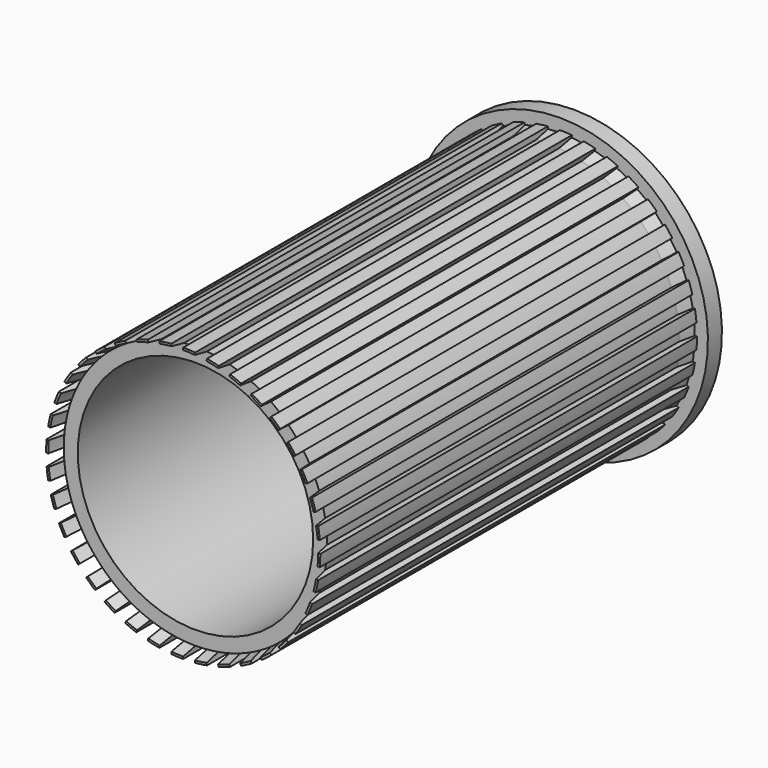
from build123d import *

# Parameters (mm, degrees)
F0_R     = 215
F1_DEPTH = 860


with BuildPart() as f1:
    # F0 (on Front) → F1 (new body)
    with BuildSketch(Plane.XZ):
        with BuildLine():
            Line((-239.4852054213, 20.9522405565), (-249.4471524022, 21.823797984))
            ThreePointArc((-249.4471524022, 21.823797984), (-250.1616746841, 10.9222945963), (-250.4, 0))
            Line((-250.4, 0), (-240.4, 0))
            ThreePointArc((-240.4, 0), (-240.1711924683, -10.4861007226), (-239.4852054213, -20.9522405565))
            Line((-239.4852054213, -20.9522405565), (-249.4471524022, -21.823797984))
            ThreePointArc((-249.4471524022, -21.823797984), (-248.257793288, -32.6837585319), (-246.5958613543, -43.4815036878))
            Line((-246.5958613543, -43.4815036878), (-236.7477838241, -41.7450219111))
            ThreePointArc((-236.7477838241, -41.7450219111), (-234.7015601116, -52.0320831907), (-232.2085686399, -62.2200984426))
            Line((-232.2085686399, -62.2200984426), (-241.8678269028, -64.8082888937))
            ThreePointArc((-241.8678269028, -64.8082888937), (-238.8107244674, -75.2967321959), (-235.2990322448, -85.6418438887))
            Line((-235.2990322448, -85.6418438887), (-225.9021060369, -82.2216424555))
            ThreePointArc((-225.9021060369, -82.2216424555), (-222.1006396157, -91.9970971406), (-217.8763920036, -101.5974301225))
            Line((-217.8763920036, -101.5974301225), (-226.939469874, -105.8236127399))
            ThreePointArc((-226.939469874, -105.8236127399), (-222.1075126278, -115.6218527541), (-216.8527611076, -125.2))
            Line((-216.8527611076, -125.2), (-208.1925070698, -120.2))
            ThreePointArc((-208.1925070698, -120.2), (-202.7513035734, -129.1668258466), (-196.9241514471, -137.8877752988))
            Line((-196.9241514471, -137.8877752988), (-205.11567189, -143.6235396623))
            ThreePointArc((-205.11567189, -143.6235396623), (-198.6556764089, -152.4338618238), (-191.817528557, -160.9540174655))
            Line((-191.817528557, -160.9540174655), (-184.1570841258, -154.5261413686))
            ThreePointArc((-184.1570841258, -154.5261413686), (-177.2414717692, -162.4118859108), (-169.9884701972, -169.9884701972))
            Line((-169.9884701972, -169.9884701972), (-177.0595380091, -177.0595380091))
            ThreePointArc((-177.0595380091, -177.0595380091), (-169.167787987, -184.6142451373), (-160.9540174655, -191.817528557))
            Line((-160.9540174655, -191.817528557), (-154.5261413686, -184.1570841258))
            ThreePointArc((-154.5261413686, -184.1570841258), (-146.3462475337, -190.722143006), (-137.8877752988, -196.9241514471))
            Line((-137.8877752988, -196.9241514471), (-143.6235396623, -205.11567189))
            ThreePointArc((-143.6235396623, -205.11567189), (-134.53982193, -211.1852180315), (-125.2, -216.8527611076))
            Line((-125.2, -216.8527611076), (-120.2, -208.1925070698))
            ThreePointArc((-120.2, -208.1925070698), (-111.0043666217, -213.237404296), (-101.5974301225, -217.8763920036))
            Line((-101.5974301225, -217.8763920036), (-105.8236127399, -226.939469874))
            ThreePointArc((-105.8236127399, -226.939469874), (-95.8239314642, -231.3394349408), (-85.6418438887, -235.2990322448))
            Line((-85.6418438887, -235.2990322448), (-82.2216424555, -225.9021060369))
            ThreePointArc((-82.2216424555, -225.9021060369), (-72.2896742008, -229.2735549599), (-62.2200984426, -232.2085686399))
            Line((-62.2200984426, -232.2085686399), (-64.8082888937, -241.8678269028))
            ThreePointArc((-64.8082888937, -241.8678269028), (-54.1964793301, -244.4645201828), (-43.4815036878, -246.5958613543))
            Line((-43.4815036878, -246.5958613543), (-41.7450219111, -236.7477838241))
            ThreePointArc((-41.7450219111, -236.7477838241), (-31.3784966097, -238.3433446743), (-20.9522405565, -239.4852054213))
            Line((-20.9522405565, -239.4852054213), (-21.823797984, -249.4471524022))
            ThreePointArc((-21.823797984, -249.4471524022), (-10.9222945963, -250.1616746841), (0, -250.4))
            Line((0, -250.4), (0, -240.4))
            ThreePointArc((0, -240.4), (10.4861007226, -240.1711924683), (20.9522405565, -239.4852054213))
            Line((20.9522405565, -239.4852054213), (21.823797984, -249.4471524022))
            ThreePointArc((21.823797984, -249.4471524022), (32.6837585319, -248.257793288), (43.4815036878, -246.5958613543))
            Line((43.4815036878, -246.5958613543), (41.7450219111, -236.7477838241))
            ThreePointArc((41.7450219111, -236.7477838241), (52.0320831907, -234.7015601116), (62.2200984426, -232.2085686399))
            Line((62.2200984426, -232.2085686399), (64.8082888937, -241.8678269028))
            ThreePointArc((64.8082888937, -241.8678269028), (75.2967321959, -238.8107244674), (85.6418438887, -235.2990322448))
            Line((85.6418438887, -235.2990322448), (82.2216424555, -225.9021060369))
            ThreePointArc((82.2216424555, -225.9021060369), (91.9970971406, -222.1006396157), (101.5974301225, -217.8763920036))
            Line((101.5974301225, -217.8763920036), (105.8236127399, -226.939469874))
            ThreePointArc((105.8236127399, -226.939469874), (115.6218527541, -222.1075126278), (125.2, -216.8527611076))
            Line((125.2, -216.8527611076), (120.2, -208.1925070698))
            ThreePointArc((120.2, -208.1925070698), (129.1668258466, -202.7513035734), (137.8877752988, -196.9241514471))
            Line((137.8877752988, -196.9241514471), (143.6235396623, -205.11567189))
            ThreePointArc((143.6235396623, -205.11567189), (152.4338618238, -198.6556764089), (160.9540174655, -191.817528557))
            Line((160.9540174655, -191.817528557), (154.5261413686, -184.1570841258))
            ThreePointArc((154.5261413686, -184.1570841258), (162.4118859108, -177.2414717692), (169.9884701972, -169.9884701972))
            Line((169.9884701972, -169.9884701972), (177.0595380091, -177.0595380091))
            ThreePointArc((177.0595380091, -177.0595380091), (184.6142451373, -169.167787987), (191.817528557, -160.9540174655))
            Line((191.817528557, -160.9540174655), (184.1570841258, -154.5261413686))
            ThreePointArc((184.1570841258, -154.5261413686), (190.722143006, -146.3462475337), (196.9241514471, -137.8877752988))
            Line((196.9241514471, -137.8877752988), (205.11567189, -143.6235396623))
            ThreePointArc((205.11567189, -143.6235396623), (211.1852180315, -134.53982193), (216.8527611076, -125.2))
            Line((216.8527611076, -125.2), (208.1925070698, -120.2))
            ThreePointArc((208.1925070698, -120.2), (213.237404296, -111.0043666217), (217.8763920036, -101.5974301225))
            Line((217.8763920036, -101.5974301225), (226.939469874, -105.8236127399))
            ThreePointArc((226.939469874, -105.8236127399), (231.3394349408, -95.8239314642), (235.2990322448, -85.6418438887))
            Line((235.2990322448, -85.6418438887), (225.9021060369, -82.2216424555))
            ThreePointArc((225.9021060369, -82.2216424555), (229.2735549599, -72.2896742008), (232.2085686399, -62.2200984426))
            Line((232.2085686399, -62.2200984426), (241.8678269028, -64.8082888937))
            ThreePointArc((241.8678269028, -64.8082888937), (244.4645201828, -54.1964793301), (246.5958613543, -43.4815036878))
            Line((246.5958613543, -43.4815036878), (236.7477838241, -41.7450219111))
            ThreePointArc((236.7477838241, -41.7450219111), (238.3433446743, -31.3784966097), (239.4852054213, -20.9522405565))
            Line((239.4852054213, -20.9522405565), (249.4471524022, -21.823797984))
            ThreePointArc((249.4471524022, -21.823797984), (250.1616746841, -10.9222945963), (250.4, 0))
            Line((250.4, 0), (240.4, 0))
            ThreePointArc((240.4, 0), (240.1711924683, 10.4861007226), (239.4852054213, 20.9522405565))
            Line((239.4852054213, 20.9522405565), (249.4471524022, 21.823797984))
            ThreePointArc((249.4471524022, 21.823797984), (248.257793288, 32.6837585319), (246.5958613543, 43.4815036878))
            Line((246.5958613543, 43.4815036878), (236.7477838241, 41.7450219111))
            ThreePointArc((236.7477838241, 41.7450219111), (234.7015601116, 52.0320831907), (232.2085686399, 62.2200984426))
            Line((232.2085686399, 62.2200984426), (241.8678269028, 64.8082888937))
            ThreePointArc((241.8678269028, 64.8082888937), (238.8107244674, 75.2967321959), (235.2990322448, 85.6418438887))
            Line((235.2990322448, 85.6418438887), (225.9021060369, 82.2216424555))
            ThreePointArc((225.9021060369, 82.2216424555), (222.1006396157, 91.9970971406), (217.8763920036, 101.5974301225))
            Line((217.8763920036, 101.5974301225), (226.939469874, 105.8236127399))
            ThreePointArc((226.939469874, 105.8236127399), (222.1075126278, 115.6218527541), (216.8527611076, 125.2))
            Line((216.8527611076, 125.2), (208.1925070698, 120.2))
            ThreePointArc((208.1925070698, 120.2), (202.7513035734, 129.1668258466), (196.9241514471, 137.8877752988))
            Line((196.9241514471, 137.8877752988), (205.11567189, 143.6235396623))
            ThreePointArc((205.11567189, 143.6235396623), (198.6556764089, 152.4338618238), (191.817528557, 160.9540174655))
            Line((191.817528557, 160.9540174655), (184.1570841258, 154.5261413686))
            ThreePointArc((184.1570841258, 154.5261413686), (177.2414717692, 162.4118859108), (169.9884701972, 169.9884701972))
            Line((169.9884701972, 169.9884701972), (177.0595380091, 177.0595380091))
            ThreePointArc((177.0595380091, 177.0595380091), (169.167787987, 184.6142451373), (160.9540174655, 191.817528557))
            Line((160.9540174655, 191.817528557), (154.5261413686, 184.1570841258))
            ThreePointArc((154.5261413686, 184.1570841258), (146.3462475337, 190.722143006), (137.8877752988, 196.9241514471))
            Line((137.8877752988, 196.9241514471), (143.6235396623, 205.11567189))
            ThreePointArc((143.6235396623, 205.11567189), (134.53982193, 211.1852180315), (125.2, 216.8527611076))
            Line((125.2, 216.8527611076), (120.2, 208.1925070698))
            ThreePointArc((120.2, 208.1925070698), (111.0043666217, 213.237404296), (101.5974301225, 217.8763920036))
            Line((101.5974301225, 217.8763920036), (105.8236127399, 226.939469874))
            ThreePointArc((105.8236127399, 226.939469874), (95.8239314642, 231.3394349408), (85.6418438887, 235.2990322448))
            Line((85.6418438887, 235.2990322448), (82.2216424555, 225.9021060369))
            ThreePointArc((82.2216424555, 225.9021060369), (72.2896742008, 229.2735549599), (62.2200984426, 232.2085686399))
            Line((62.2200984426, 232.2085686399), (64.8082888937, 241.8678269028))
            ThreePointArc((64.8082888937, 241.8678269028), (54.1964793301, 244.4645201828), (43.4815036878, 246.5958613543))
            Line((43.4815036878, 246.5958613543), (41.7450219111, 236.7477838241))
            ThreePointArc((41.7450219111, 236.7477838241), (31.3784966097, 238.3433446743), (20.9522405565, 239.4852054213))
            Line((20.9522405565, 239.4852054213), (21.823797984, 249.4471524022))
            ThreePointArc((21.823797984, 249.4471524022), (10.9222945963, 250.1616746841), (0, 250.4))
            Line((0, 250.4), (0, 240.4))
            ThreePointArc((0, 240.4), (-10.4861007226, 240.1711924683), (-20.9522405565, 239.4852054213))
            Line((-20.9522405565, 239.4852054213), (-21.823797984, 249.4471524022))
            ThreePointArc((-21.823797984, 249.4471524022), (-32.6837585319, 248.257793288), (-43.4815036878, 246.5958613543))
            Line((-43.4815036878, 246.5958613543), (-41.7450219111, 236.7477838241))
            ThreePointArc((-41.7450219111, 236.7477838241), (-52.0320831907, 234.7015601116), (-62.2200984426, 232.2085686399))
            Line((-62.2200984426, 232.2085686399), (-64.8082888937, 241.8678269028))
            ThreePointArc((-64.8082888937, 241.8678269028), (-75.2967321959, 238.8107244674), (-85.6418438887, 235.2990322448))
            Line((-85.6418438887, 235.2990322448), (-82.2216424555, 225.9021060369))
            ThreePointArc((-82.2216424555, 225.9021060369), (-91.9970971406, 222.1006396157), (-101.5974301225, 217.8763920036))
            Line((-101.5974301225, 217.8763920036), (-105.8236127399, 226.939469874))
            ThreePointArc((-105.8236127399, 226.939469874), (-115.6218527541, 222.1075126278), (-125.2, 216.8527611076))
            Line((-125.2, 216.8527611076), (-120.2, 208.1925070698))
            ThreePointArc((-120.2, 208.1925070698), (-129.1668258466, 202.7513035734), (-137.8877752988, 196.9241514471))
            Line((-137.8877752988, 196.9241514471), (-143.6235396623, 205.11567189))
            ThreePointArc((-143.6235396623, 205.11567189), (-152.4338618238, 198.6556764089), (-160.9540174655, 191.817528557))
            Line((-160.9540174655, 191.817528557), (-154.5261413686, 184.1570841258))
            ThreePointArc((-154.5261413686, 184.1570841258), (-162.4118859108, 177.2414717692), (-169.9884701972, 169.9884701972))
            Line((-169.9884701972, 169.9884701972), (-177.0595380091, 177.0595380091))
            ThreePointArc((-177.0595380091, 177.0595380091), (-184.6142451373, 169.167787987), (-191.817528557, 160.9540174655))
            Line((-191.817528557, 160.9540174655), (-184.1570841258, 154.5261413686))
            ThreePointArc((-184.1570841258, 154.5261413686), (-190.722143006, 146.3462475337), (-196.9241514471, 137.8877752988))
            Line((-196.9241514471, 137.8877752988), (-205.11567189, 143.6235396623))
            ThreePointArc((-205.11567189, 143.6235396623), (-211.1852180315, 134.53982193), (-216.8527611076, 125.2))
            Line((-216.8527611076, 125.2), (-208.1925070698, 120.2))
            ThreePointArc((-208.1925070698, 120.2), (-213.237404296, 111.0043666217), (-217.8763920036, 101.5974301225))
            Line((-217.8763920036, 101.5974301225), (-226.939469874, 105.8236127399))
            ThreePointArc((-226.939469874, 105.8236127399), (-231.3394349408, 95.8239314642), (-235.2990322448, 85.6418438887))
            Line((-235.2990322448, 85.6418438887), (-225.9021060369, 82.2216424555))
            ThreePointArc((-225.9021060369, 82.2216424555), (-229.2735549599, 72.2896742008), (-232.2085686399, 62.2200984426))
            Line((-232.2085686399, 62.2200984426), (-241.8678269028, 64.8082888937))
            ThreePointArc((-241.8678269028, 64.8082888937), (-244.4645201828, 54.1964793301), (-246.5958613543, 43.4815036878))
            Line((-246.5958613543, 43.4815036878), (-236.7477838241, 41.7450219111))
            ThreePointArc((-236.7477838241, 41.7450219111), (-238.3433446743, 31.3784966097), (-239.4852054213, 20.9522405565))
        make_face()
        Circle(F0_R, mode=Mode.SUBTRACT)
    extrude(amount=F1_DEPTH)

    # F2 (on Right) → F3 (revolve, cut)
    with BuildSketch(Plane.YZ):
        Polygon((-860, 246.4), (-860, 215), (-832, 215), (-832, 240.4), align=None)
        Polygon((0, 215), (0, 246.4), (-28, 240.4), (-28, 215), align=None)
    revolve(axis=Axis((0, -505.0821546835, 0), (0, -1, 0)), mode=Mode.SUBTRACT)


with BuildPart() as f5:
    # F4 (on Right) → F5 (revolve)
    with BuildSketch(Plane.YZ):
        Polygon((-27.9251672328, 0), (0, 0), (32.0308469236, 0), (32.0308469236, 250.4), (32.0308469236, 270.4), (0, 270.4), (0, 250.4), (0, 246.4), (-28, 240.4), align=None)
    revolve(axis=Axis((0, -17.9567150772, 0), (0, -1, 0)))


solid = Compound([f1.part, f5.part])
